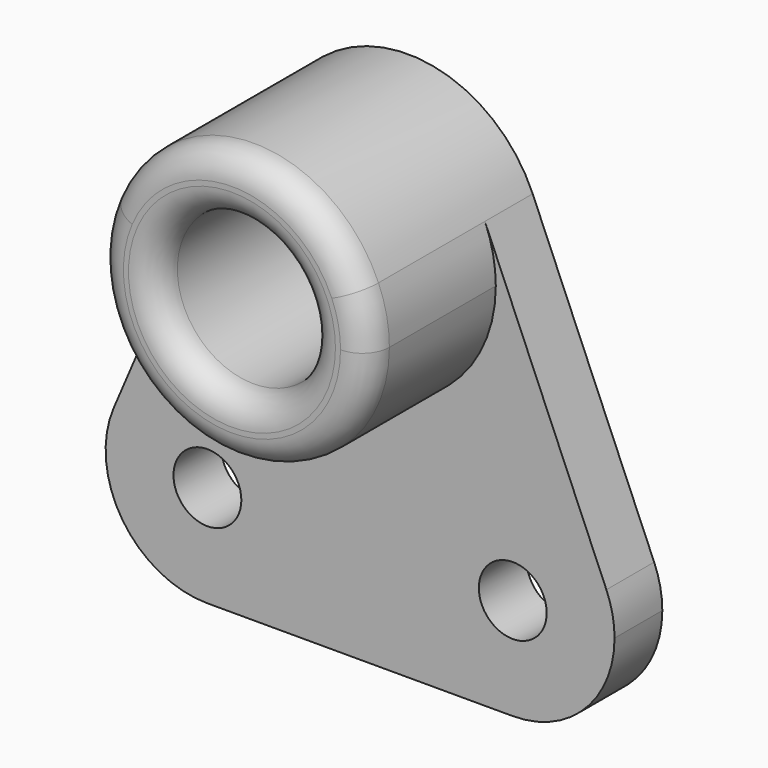
from build123d import *

# Parameters (mm, degrees)
F0_R     = 14.2875
F1_DEPTH = 41.148
F2_R     = 5.08
F3_DEPTH = 11.176
F0_R_2   = 6.35
F4_DEPTH = 11.176
F5_DEPTH = 11.176


with BuildPart() as f1:
    # F0 (on Front) → F1 (new body)
    with BuildSketch(Plane.XZ):
        with BuildLine():
            ThreePointArc((-23.36292, 9.966643), (-5.086346, -24.88552), (25.4, 0))
            ThreePointArc((25.4, 0), (24.88552, 5.086346), (23.36292, 9.966643))
            ThreePointArc((23.36292, 9.966643), (0, 25.4), (-23.36292, 9.966643))
        make_face()
        Circle(F0_R, mode=Mode.SUBTRACT)
    extrude(amount=F1_DEPTH)

    # F2
    f2_edges = [f1.edges().sort_by_distance(p)[0] for p in [
        (-25.4, -41.148, 0),
        (-14.2875, -41.148, 0),
    ]]
    fillet(f2_edges, radius=F2_R)

    # F0 (on Front) → F3 (join)
    with BuildSketch(Plane.XZ):
        with BuildLine():
            ThreePointArc((23.36292, 9.966643), (24.88552, 5.086346), (25.4, 0))
            ThreePointArc((25.4, 0), (-5.086346, -24.88552), (-23.36292, 9.966643))
            Line((-23.36292, 9.966643), (-46.09719, -43.325018))
            ThreePointArc((-46.09719, -43.325018), (-24.760241, -32.13586), (-9.525, -50.8))
            ThreePointArc((-9.525, -50.8), (-15.104616, -64.270384), (-28.575, -69.85))
            Line((-28.575, -69.85), (28.575, -69.85))
            ThreePointArc((28.575, -69.85), (12.680018, -40.299903), (46.09719, -43.325018))
            Line((46.09719, -43.325018), (23.36292, 9.966643))
        make_face()
    extrude(amount=F3_DEPTH)

    # F0 (on Front) → F4 (join)
    with BuildSketch(Plane.XZ):
        with BuildLine():
            ThreePointArc((-9.525, -50.8), (-24.760241, -32.13586), (-46.09719, -43.325018))
            ThreePointArc((-46.09719, -43.325018), (-44.469982, -61.300097), (-28.575, -69.85))
            ThreePointArc((-28.575, -69.85), (-15.104616, -64.270384), (-9.525, -50.8))
        make_face()
        with Locations((-28.575, -50.8)):
            Circle(F0_R_2, mode=Mode.SUBTRACT)
    extrude(amount=F4_DEPTH)

    # F0 (on Front) → F5 (join)
    with BuildSketch(Plane.XZ):
        with BuildLine():
            ThreePointArc((47.625, -50.8), (47.23914, -46.985241), (46.09719, -43.325018))
            ThreePointArc((46.09719, -43.325018), (12.680018, -40.299903), (28.575, -69.85))
            ThreePointArc((28.575, -69.85), (42.045384, -64.270384), (47.625, -50.8))
        make_face()
        with Locations((28.575, -50.8)):
            Circle(F0_R_2, mode=Mode.SUBTRACT)
    extrude(amount=F5_DEPTH)


solid = f1.part
